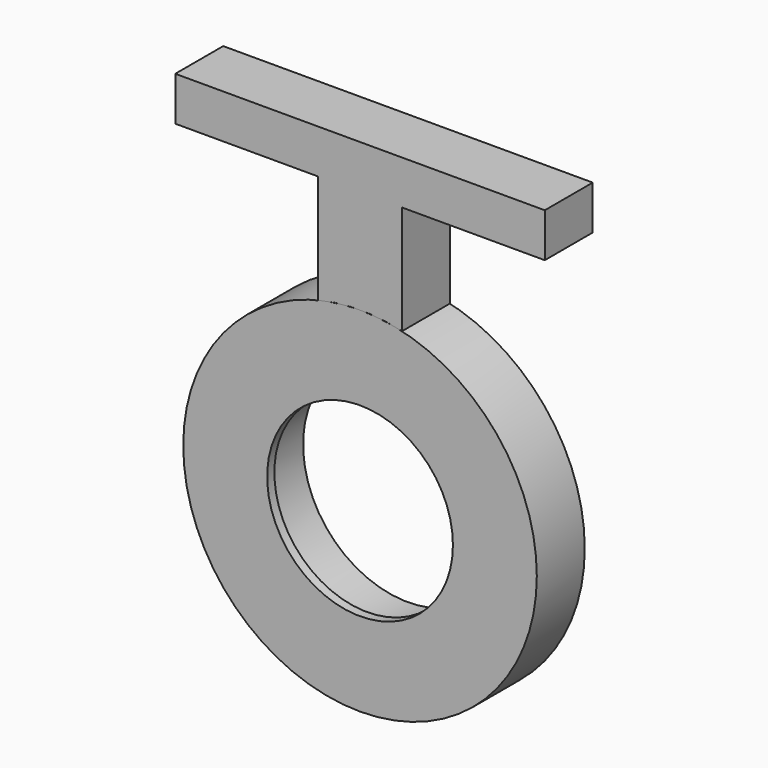
from build123d import *

# Parameters (mm, degrees)
F0_R     = 14.986
F1_DEPTH = 5.08
F2_R     = 7.874
F3_DEPTH = 5.081
F4_R     = 8.89
F5_DEPTH = 4.318
F7_DEPTH = 5.08
F8_W     = 31.323832
F8_H     = 3.728606
F9_DEPTH = 5.08


with BuildPart() as f1:
    # F0 (on Front) → F1 (new body)
    with BuildSketch(Plane.XZ):
        Circle(F0_R)
        Circle(F0_R)
    extrude(amount=F1_DEPTH)

    # F2 (on face) → F3 (cut, through all)
    with BuildSketch(Plane.XZ.offset(5.08)):
        Circle(F2_R)
    extrude(amount=-F3_DEPTH, mode=Mode.SUBTRACT)

    # F4 (on Front) → F5 (cut)
    with BuildSketch(Plane.XZ):
        Circle(F4_R)
    extrude(amount=F5_DEPTH, mode=Mode.SUBTRACT)


with BuildPart() as f7:
    # F6 (on face) → F7 (new body)
    with BuildSketch(Plane.XZ.offset(5.08)):
        with BuildLine():
            ThreePointArc((-3.556, 14.55799), (0, 14.986), (3.556, 14.55799))
            Line((3.556, 14.55799), (3.556, 24.189062))
            Line((3.556, 24.189062), (-3.556, 24.189062))
            Line((-3.556, 24.189062), (-3.556, 14.55799))
        make_face()
    extrude(amount=-F7_DEPTH)

    # F8 (on face) → F9 (join)
    with BuildSketch(Plane.XZ.offset(5.08)):
        with Locations((0, 25.657849)):
            Rectangle(F8_W, F8_H)
    extrude(amount=-F9_DEPTH)


solid = Compound([f1.part, f7.part])
